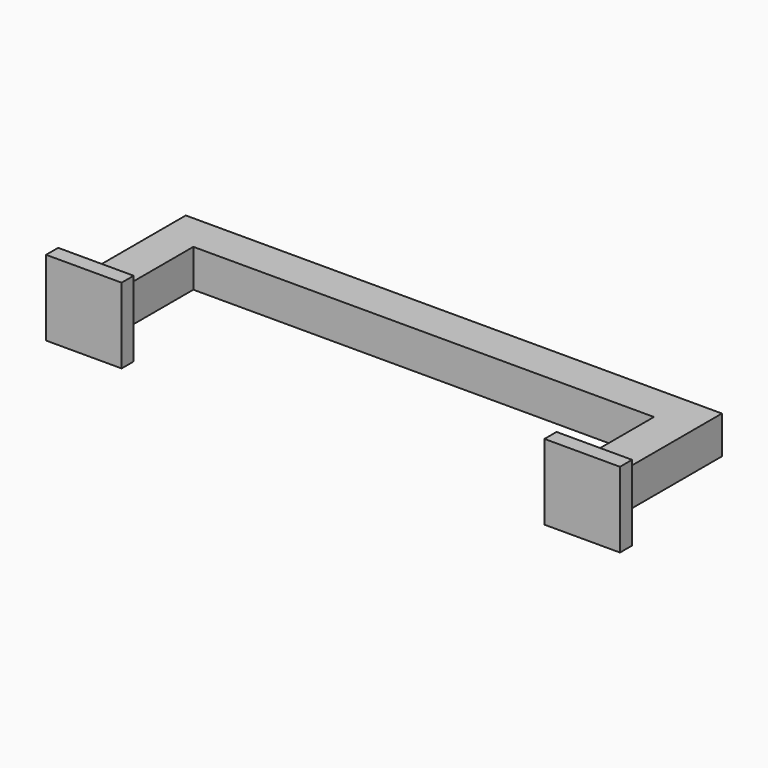
from build123d import *

# Parameters (mm, degrees)
PAD_DEPTH           = 2.5
SKETCH002_W         = 10
SKETCH002_H         = 10
PAD001_DEPTH        = 2
LINEARPATTERN_COUNT = 2
LINEARPATTERN_PITCH = 66


with BuildPart() as part:
    # Sketch001 → Pad (new body, symmetric)
    with BuildSketch(Plane.XY):
        Polygon((-35.5, 0), (-35.5, 20), (35.5, 20), (35.5, 0), (30.5, 0), (30.5, 15), (-30.5, 15), (-30.5, 0), align=None)
    extrude(amount=PAD_DEPTH, both=True)

    # Sketch002 (on Face4 of Pad) → Pad001 (join)
    with BuildSketch(Plane.XZ):
        with Locations((33, 0.228973)):
            Rectangle(SKETCH002_W, SKETCH002_H)
    pad001 = extrude(amount=-PAD001_DEPTH)

    # LinearPattern: Pad001 ×2
    with Locations(*[(-i * LINEARPATTERN_PITCH, 0, 0) for i in range(1, LINEARPATTERN_COUNT)]):
        add(pad001)


solid = part.part
